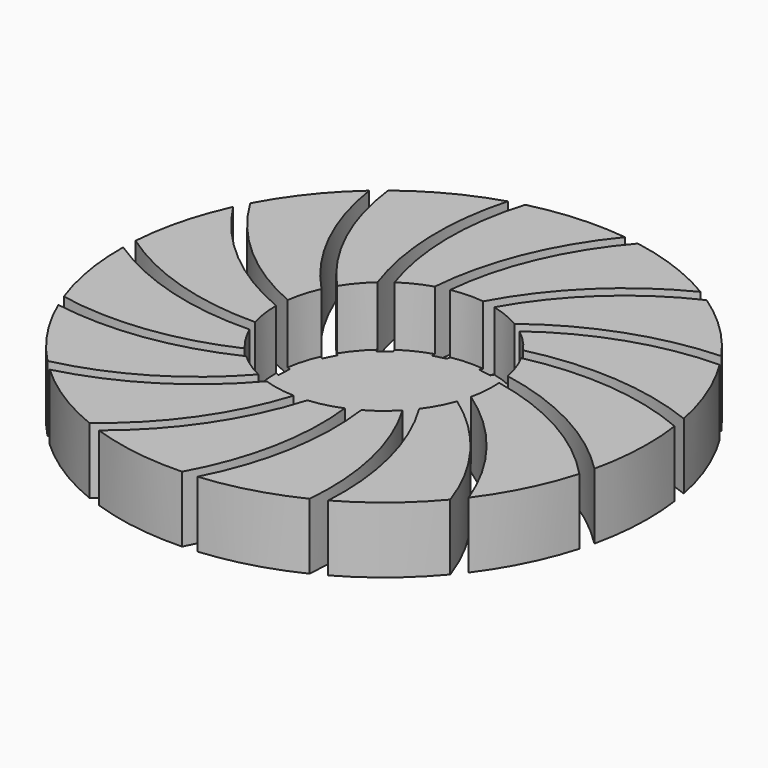
from build123d import *

# Parameters (mm, degrees)
SKETCH_R           = 40
PAD_DEPTH          = 10
POCKET_DEPTH       = 237.157334
POLARPATTERN_COUNT = 15
SKETCH002_R        = 16.5
POCKET001_DEPTH    = 9


with BuildPart() as part:
    # Sketch → Pad (new body)
    with BuildSketch(Plane.XY):
        Circle(SKETCH_R)
    extrude(amount=PAD_DEPTH)

    # Sketch001 (on Face1 of ShapeBinder) → Pocket (cut, through all)
    with BuildSketch(Plane.XY.offset(10)):
        with BuildLine():
            ThreePointArc((-36.92851, 17.8125), (-27.922716, 7.192654), (-16, 0))
            Line((-15.874508, 2), (-16, 0))
            ThreePointArc((-35.895192, 19.8125), (-27.374199, 9.232269), (-15.874508, 2))
            Line((-35.895192, 19.8125), (-36.92851, 17.8125))
        make_face()
    pocket = extrude(amount=-POCKET_DEPTH, mode=Mode.SUBTRACT)

    # PolarPattern: Pocket ×15 about axis
    polarpattern_axis = Axis((0, 0, 0), (0, 0, 1))
    for i in range(1, POLARPATTERN_COUNT):
        add(pocket.rotate(polarpattern_axis, i * 360 / POLARPATTERN_COUNT), mode=Mode.SUBTRACT)

    # Sketch002 (on Face4 of PolarPattern) → Pocket001 (cut)
    with BuildSketch(Plane.XY.offset(10)):
        Circle(SKETCH002_R)
    extrude(amount=-POCKET001_DEPTH, mode=Mode.SUBTRACT)


with BuildPart() as part_1:
    # Body placement: moved
    add(part.part.moved(Location((50, 63, 63))))


solid = part_1.part
